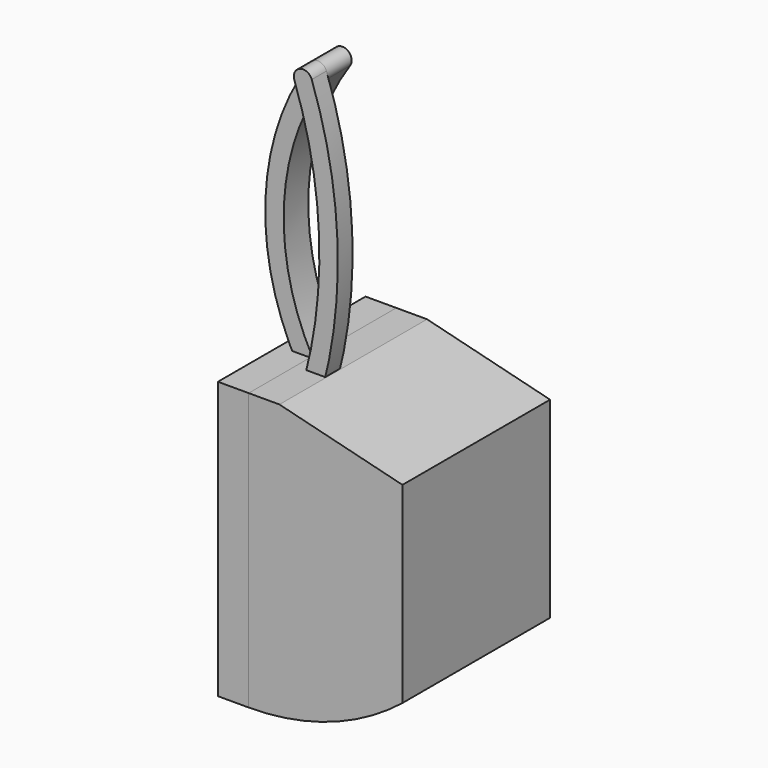
from build123d import *

# Parameters (mm, degrees)
F1_DEPTH = 19.05
F2_T     = -2.54
F4_DEPTH = 3.175
F6_DEPTH = 19.05
F8_DEPTH = 3.81


with BuildPart() as f1:
    # F0 (on Front) → F1 (new body, symmetric)
    with BuildSketch(Plane.XZ):
        with BuildLine():
            Line((0, 6.35), (0, 0))
            Line((0, 0), (0, -50.8))
            ThreePointArc((0, -50.8), (16.824514, -47.933034), (31.75, -39.655737))
            Line((31.75, -39.655737), (31.75, 0))
            Line((31.75, 0), (6.35, 6.35))
            Line((6.35, 6.35), (0, 6.35))
        make_face()
    extrude(amount=F1_DEPTH, both=True)

    # F2
    f2_openings = [f1.faces().sort_by_distance(p)[0] for p in [
        (0, 0, -22.225),
    ]]
    offset(amount=F2_T, openings=f2_openings)

    # F3 (on Front) → F4 (join, symmetric)
    with BuildSketch(Plane.XZ):
        with BuildLine():
            ThreePointArc((3.143247, 57.824605), (2.648204, 60.472809), (0, 59.977766))
            ThreePointArc((0, 59.977766), (-9.286437, 29.988883), (0, 0))
            Line((0, 0), (4.705253, 0))
            ThreePointArc((4.705253, 0), (-5.458476, 28.658849), (3.143247, 57.824605))
        make_face()
    extrude(amount=F4_DEPTH, both=True)


with BuildPart() as f6:
    # F5 (on Front) → F6 (new body, symmetric)
    with BuildSketch(Plane.XZ):
        Polygon((-6.35, -50.8), (0, -50.8), (0, 6.35), (-6.35, 6.35), (-6.35, 0), align=None)
    extrude(amount=F6_DEPTH, both=True)


with BuildPart() as f8:
    # F7 (on face) → F8 (new body)
    with BuildSketch(Plane.XZ.offset(3.175)):
        with BuildLine():
            ThreePointArc((-1.408339, -5.116748), (-0.441534, -7.847542), (2.133585, -6.520626))
            ThreePointArc((2.133585, -6.520626), (8.738361, 26.396079), (3.367566, 59.536494))
            ThreePointArc((3.367566, 59.536494), (0.936316, 60.697128), (-0.224319, 58.265878))
            ThreePointArc((-0.224319, 58.265878), (4.929026, 26.467239), (-1.408339, -5.116748))
        make_face()
    extrude(amount=F8_DEPTH)


solid = Compound([f1.part, f6.part, f8.part])
